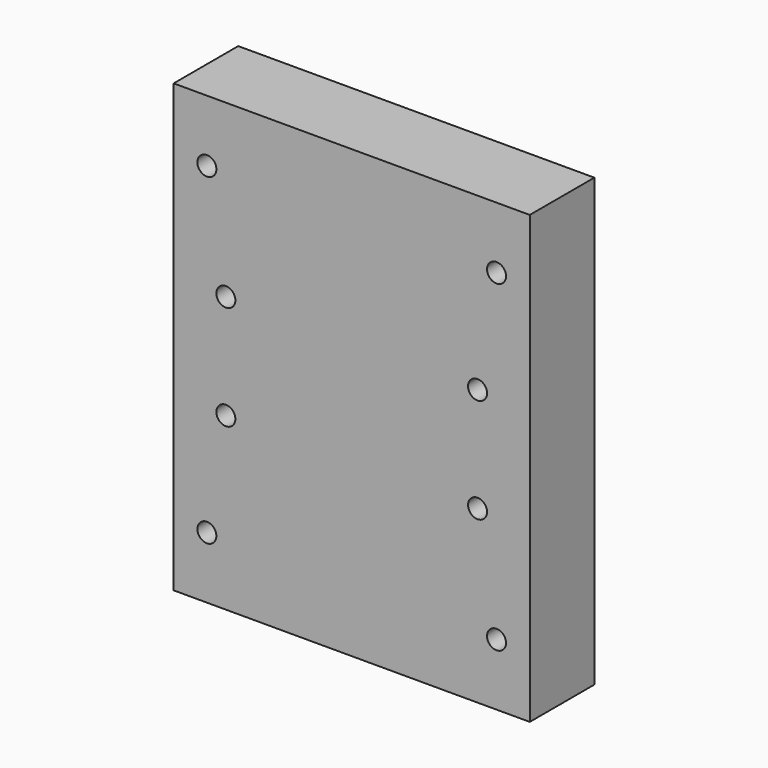
from build123d import *

# Parameters (mm, degrees)
F0_W     = 75
F0_H     = 94
F0_R     = 2
F1_DEPTH = 17


with BuildPart() as f1:
    # F0 (on Front) → F1 (new body)
    with BuildSketch(Plane.XZ):
        with Locations((-1.479264, 0)):
            Rectangle(F0_W, F0_H)
        with Locations((-31.979264, -34)):
            Circle(F0_R, mode=Mode.SUBTRACT)
        with Locations((-27.979264, -11)):
            Circle(F0_R, mode=Mode.SUBTRACT)
        with Locations((29.020736, -34)):
            Circle(F0_R, mode=Mode.SUBTRACT)
        with Locations((25.020736, -11)):
            Circle(F0_R, mode=Mode.SUBTRACT)
        with Locations((-27.979264, 11)):
            Circle(F0_R, mode=Mode.SUBTRACT)
        with Locations((-31.979264, 34)):
            Circle(F0_R, mode=Mode.SUBTRACT)
        with Locations((25.020736, 11)):
            Circle(F0_R, mode=Mode.SUBTRACT)
        with Locations((29.020736, 34)):
            Circle(F0_R, mode=Mode.SUBTRACT)
    extrude(amount=F1_DEPTH)


solid = f1.part
